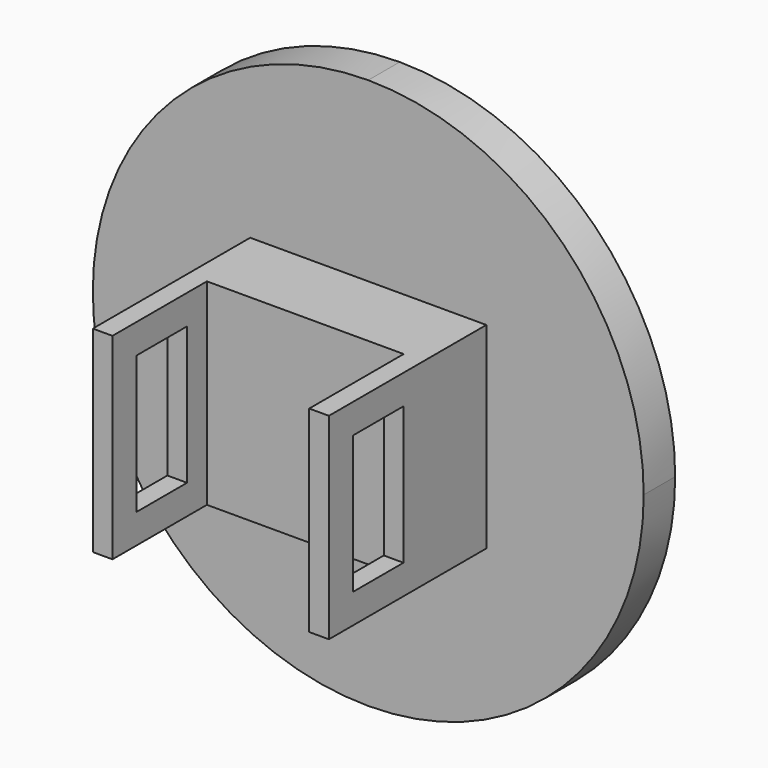
from build123d import *

# Parameters (mm, degrees)
F1_DEPTH = 12.7
F0_W     = 6.35
F0_H     = 31.75
F2_DEPTH = 76.2
F0_W_2   = 31.75
F3_DEPTH = 38.1
F4_W     = 20.32
F4_H     = 44.45
F5_DEPTH = 200.02717


with BuildPart() as f1:
    # F0 (on Front) → F1 (new body)
    with BuildSketch(Plane.XZ):
        with BuildLine():
            Line((-789.6218383789, 3.1863217354), (-738.8218383789, 3.1863217354))
            ThreePointArc((-738.8218383789, 3.1863217354), (-764.8600455314, 66.0481145829), (-827.7218383789, 92.0863217354))
            Line((-827.7218383789, 92.0863217354), (-827.7218383789, 34.9363217354))
            Line((-827.7218383789, 34.9363217354), (-795.9718383789, 34.9363217354))
            Line((-795.9718383789, 34.9363217354), (-789.6218383789, 34.9363217354))
            Line((-789.6218383789, 34.9363217354), (-789.6218383789, 3.1863217354))
        make_face()
        with BuildLine():
            Line((-827.7218383789, 34.9363217354), (-827.7218383789, 92.0863217354))
            ThreePointArc((-827.7218383789, 92.0863217354), (-890.5836312264, 66.0481145829), (-916.6218383789, 3.1863217354))
            Line((-916.6218383789, 3.1863217354), (-865.8218383789, 3.1863217354))
            Line((-865.8218383789, 3.1863217354), (-865.8218383789, 34.9363217354))
            Line((-865.8218383789, 34.9363217354), (-859.4718383789, 34.9363217354))
            Line((-859.4718383789, 34.9363217354), (-827.7218383789, 34.9363217354))
        make_face()
        with BuildLine():
            ThreePointArc((-916.6218383789, 3.1863217354), (-890.5836312264, -59.6754711121), (-827.7218383789, -85.7136782646))
            Line((-827.7218383789, -85.7136782646), (-827.7218383789, -28.5636782646))
            Line((-827.7218383789, -28.5636782646), (-859.4718383789, -28.5636782646))
            Line((-859.4718383789, -28.5636782646), (-865.8218383789, -28.5636782646))
            Line((-865.8218383789, -28.5636782646), (-865.8218383789, 3.1863217354))
            Line((-865.8218383789, 3.1863217354), (-916.6218383789, 3.1863217354))
        make_face()
        with BuildLine():
            ThreePointArc((-827.7218383789, -85.7136782646), (-764.8600455314, -59.6754711121), (-738.8218383789, 3.1863217354))
            Line((-738.8218383789, 3.1863217354), (-789.6218383789, 3.1863217354))
            Line((-789.6218383789, 3.1863217354), (-789.6218383789, -28.5636782646))
            Line((-789.6218383789, -28.5636782646), (-795.9718383789, -28.5636782646))
            Line((-795.9718383789, -28.5636782646), (-827.7218383789, -28.5636782646))
            Line((-827.7218383789, -28.5636782646), (-827.7218383789, -85.7136782646))
        make_face()
        with BuildLine():
            ThreePointArc((-916.6218383789, 3.1863217354), (-890.5836312264, -59.6754711121), (-827.7218383789, -85.7136782646))
            Line((-827.7218383789, -85.7136782646), (-827.7218383789, -28.5636782646))
            Line((-827.7218383789, -28.5636782646), (-859.4718383789, -28.5636782646))
            Line((-859.4718383789, -28.5636782646), (-865.8218383789, -28.5636782646))
            Line((-865.8218383789, -28.5636782646), (-865.8218383789, 3.1863217354))
            Line((-865.8218383789, 3.1863217354), (-916.6218383789, 3.1863217354))
        make_face()
        with BuildLine():
            Line((-827.7218383789, 34.9363217354), (-827.7218383789, 92.0863217354))
            ThreePointArc((-827.7218383789, 92.0863217354), (-890.5836312264, 66.0481145829), (-916.6218383789, 3.1863217354))
            Line((-916.6218383789, 3.1863217354), (-865.8218383789, 3.1863217354))
            Line((-865.8218383789, 3.1863217354), (-865.8218383789, 34.9363217354))
            Line((-865.8218383789, 34.9363217354), (-859.4718383789, 34.9363217354))
            Line((-859.4718383789, 34.9363217354), (-827.7218383789, 34.9363217354))
        make_face()
    extrude(amount=F1_DEPTH)

    # F0 (on Front) → F2 (join)
    with BuildSketch(Plane.XZ):
        with Locations((-862.6468383789, -12.6886782646)):
            Rectangle(F0_W, F0_H)
        with Locations((-862.6468383789, 19.0613217354)):
            Rectangle(F0_W, F0_H)
        with Locations((-792.7968383789, -12.6886782646)):
            Rectangle(F0_W, F0_H)
        with Locations((-792.7968383789, 19.0613217354)):
            Rectangle(F0_W, F0_H)
    extrude(amount=F2_DEPTH)

    # F0 (on Front) → F3 (join)
    with BuildSketch(Plane.XZ):
        with Locations((-811.8468383789, -12.6886782646)):
            Rectangle(F0_W_2, F0_H)
        with Locations((-843.5968383789, -12.6886782646)):
            Rectangle(F0_W_2, F0_H)
        with Locations((-843.5968383789, 19.0613217354)):
            Rectangle(F0_W_2, F0_H)
        with Locations((-811.8468383789, 19.0613217354)):
            Rectangle(F0_W_2, F0_H)
    extrude(amount=F3_DEPTH)

    # F4 (on face) → F5 (cut)
    with BuildSketch(Plane.YZ.offset(-789.6218383789)):
        with Locations((-56.2796956563, 3.1863217354)):
            Rectangle(F4_W, F4_H)
    extrude(amount=-F5_DEPTH, mode=Mode.SUBTRACT)


solid = f1.part
